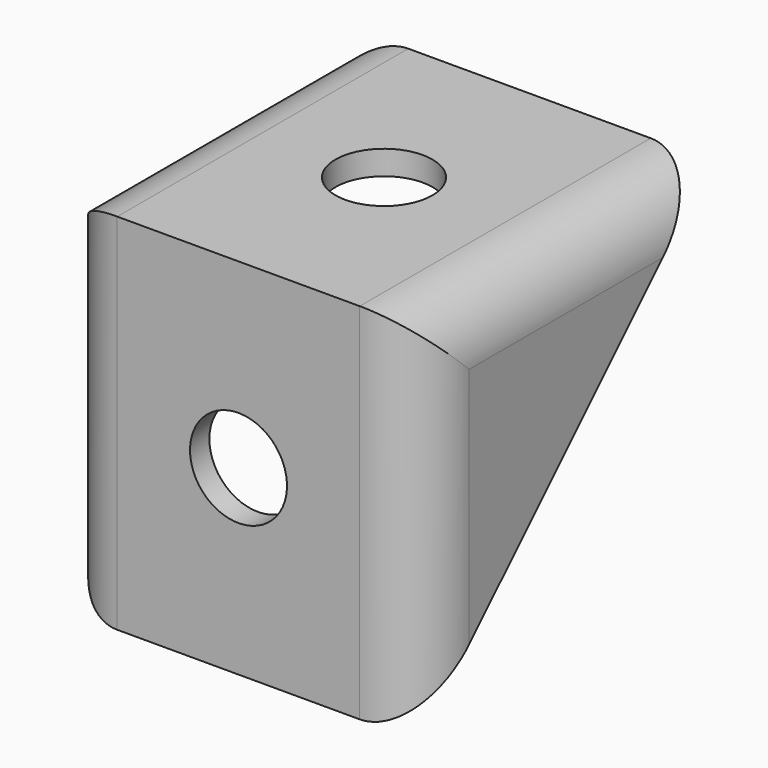
from build123d import *

# Parameters (mm, degrees)
F1_DEPTH = 30
F2_T     = -2
F3_R     = 5
F4_R     = 4
F5_DEPTH = 2.001
F6_R     = 4
F7_DEPTH = 2.001


with BuildPart() as f1:
    # F0 (on Right) → F1 (new body)
    with BuildSketch(Plane.YZ):
        Polygon((0, 30), (0, 0), (30, 30), align=None)
    extrude(amount=F1_DEPTH)

    # F2
    f2_openings = [f1.faces().sort_by_distance(p)[0] for p in [
        (15, 15, 15),
    ]]
    offset(amount=F2_T, openings=f2_openings)

    # F3
    f3_edges = [f1.edges().sort_by_distance(p)[0] for p in [
        (30, 0, 15),
        (30, 15, 30),
        (0, 0, 15),
        (0, 15, 30),
    ]]
    fillet(f3_edges, radius=F3_R)

    # F4 (on face) → F5 (cut, through all)
    with BuildSketch(Plane(origin=(0, 0, 28), x_dir=(1, 0, 0), z_dir=(0, 0, -1))):
        with Locations((15, -15)):
            Circle(F4_R)
    extrude(amount=-F5_DEPTH, mode=Mode.SUBTRACT)

    # F6 (on face) → F7 (cut, through all)
    with BuildSketch(Plane(origin=(0, 2, 0), x_dir=(-1, 0, 0), z_dir=(0, 1, 0))):
        with Locations((-15, 15)):
            Circle(F6_R)
    extrude(amount=-F7_DEPTH, mode=Mode.SUBTRACT)


solid = f1.part
